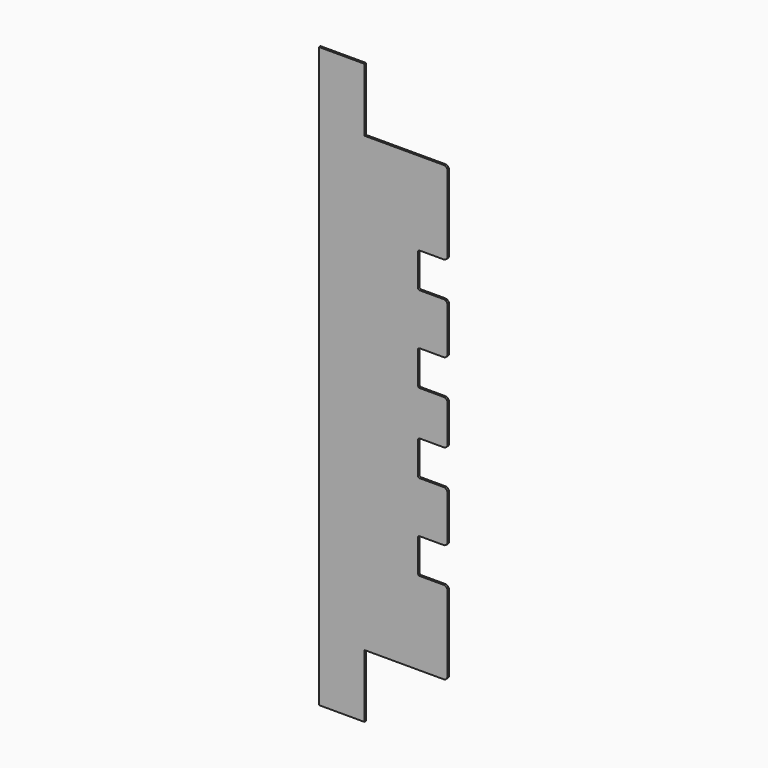
from build123d import *

# Parameters (mm, degrees)
F1_DEPTH = 1


with BuildPart() as f1:
    # F0 (on Front) → F1 (new body)
    with BuildSketch(Plane.XZ):
        with BuildLine():
            Line((0, -9.2), (0, 0))
            Line((0, 0), (0, 9.2))
            ThreePointArc((0, 9.2), (-0.585786, 10.614214), (-2, 11.2))
            Line((-2, 11.2), (-14, 11.2))
            ThreePointArc((-14, 11.2), (-14.707107, 11.492893), (-15, 12.2))
            Line((-15, 12.2), (-15, 27.9))
            ThreePointArc((-15, 27.9), (-14.707107, 28.607107), (-14, 28.9))
            Line((-14, 28.9), (-2, 28.9))
            ThreePointArc((-2, 28.9), (-0.585786, 29.485786), (0, 30.9))
            Line((0, 30.9), (0, 52.7))
            ThreePointArc((0, 52.7), (-0.585786, 54.114214), (-2, 54.7))
            Line((-2, 54.7), (-14, 54.7))
            ThreePointArc((-14, 54.7), (-14.707107, 54.992893), (-15, 55.7))
            Line((-15, 55.7), (-15, 71.4))
            ThreePointArc((-15, 71.4), (-14.707107, 72.107107), (-14, 72.4))
            Line((-14, 72.4), (-2, 72.4))
            ThreePointArc((-2, 72.4), (-0.585786, 72.985786), (0, 74.4))
            Line((0, 74.4), (0, 112.4))
            ThreePointArc((0, 112.4), (-0.585786, 113.814214), (-2, 114.4))
            Line((-2, 114.4), (-42, 114.4))
            Line((-42, 114.4), (-42, 146.4))
            Line((-42, 146.4), (-65, 146.4))
            Line((-65, 146.4), (-65, 0))
            Line((-65, 0), (-65, -146.4))
            Line((-65, -146.4), (-42, -146.4))
            Line((-42, -146.4), (-42, -114.4))
            Line((-42, -114.4), (-2, -114.4))
            ThreePointArc((-2, -114.4), (-0.585786, -113.814214), (0, -112.4))
            Line((0, -112.4), (0, -74.4))
            ThreePointArc((0, -74.4), (-0.585786, -72.985786), (-2, -72.4))
            Line((-2, -72.4), (-14, -72.4))
            ThreePointArc((-14, -72.4), (-14.707107, -72.107107), (-15, -71.4))
            Line((-15, -71.4), (-15, -55.7))
            ThreePointArc((-15, -55.7), (-14.707107, -54.992893), (-14, -54.7))
            Line((-14, -54.7), (-2, -54.7))
            ThreePointArc((-2, -54.7), (-0.585786, -54.114214), (0, -52.7))
            Line((0, -52.7), (0, -30.9))
            ThreePointArc((0, -30.9), (-0.585786, -29.485786), (-2, -28.9))
            Line((-2, -28.9), (-14, -28.9))
            ThreePointArc((-14, -28.9), (-14.707107, -28.607107), (-15, -27.9))
            Line((-15, -27.9), (-15, -12.2))
            ThreePointArc((-15, -12.2), (-14.707107, -11.492893), (-14, -11.2))
            Line((-14, -11.2), (-2, -11.2))
            ThreePointArc((-2, -11.2), (-0.585786, -10.614214), (0, -9.2))
        make_face()
    extrude(amount=F1_DEPTH)


solid = f1.part
